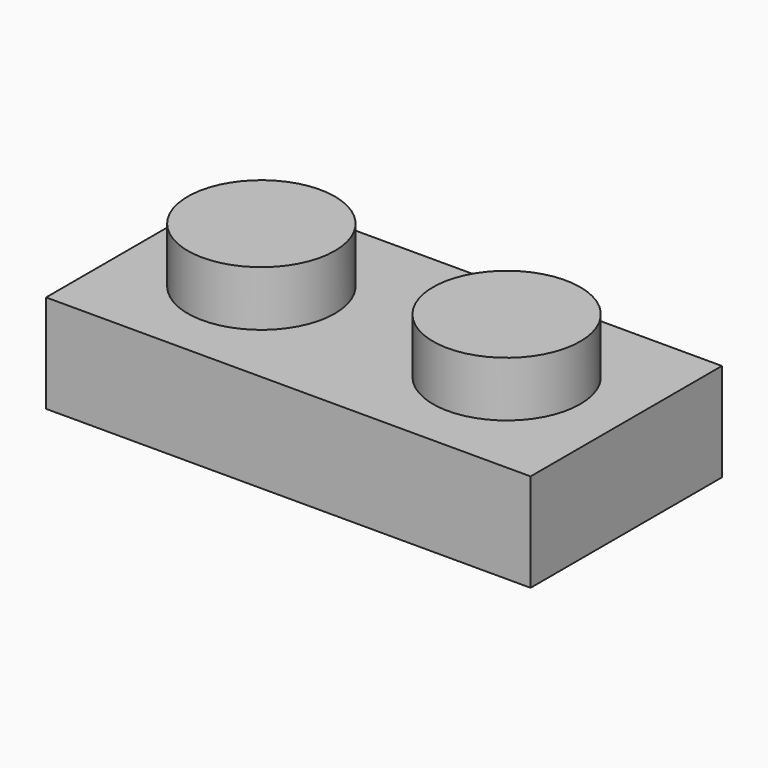
from build123d import *

# Parameters (mm, degrees)
F0_W     = 15.8
F0_H     = 7.8
F1_DEPTH = 3.2
F2_R     = 2.4
F3_DEPTH = 1.8
F4_T     = -1
F5_R     = 1.6
F5_R_2   = 0.8
F6_DEPTH = 2.2


with BuildPart() as f1:
    # F0 (on Top) → F1 (new body)
    with BuildSketch(Plane.XY):
        Rectangle(F0_W, F0_H)
    extrude(amount=F1_DEPTH)

    # F2 (on face) → F3 (join)
    with BuildSketch(Plane.XY.offset(3.2)):
        with Locations((-4, 0)):
            Circle(F2_R)
        with Locations((4, 0)):
            Circle(F2_R)
    extrude(amount=F3_DEPTH)

    # F4
    f4_openings = [f1.faces().sort_by_distance(p)[0] for p in [
        (0, 0, 0),
    ]]
    offset(amount=F4_T, openings=f4_openings, kind=Kind.INTERSECTION)

    # F5 (on face) → F6 (join, through all)
    with BuildSketch(Plane(origin=(0, 0, 2.2), x_dir=(1, 0, 0), z_dir=(0, 0, -1))):
        Circle(F5_R)
        Circle(F5_R_2, mode=Mode.SUBTRACT)
    extrude(amount=F6_DEPTH)


solid = f1.part
